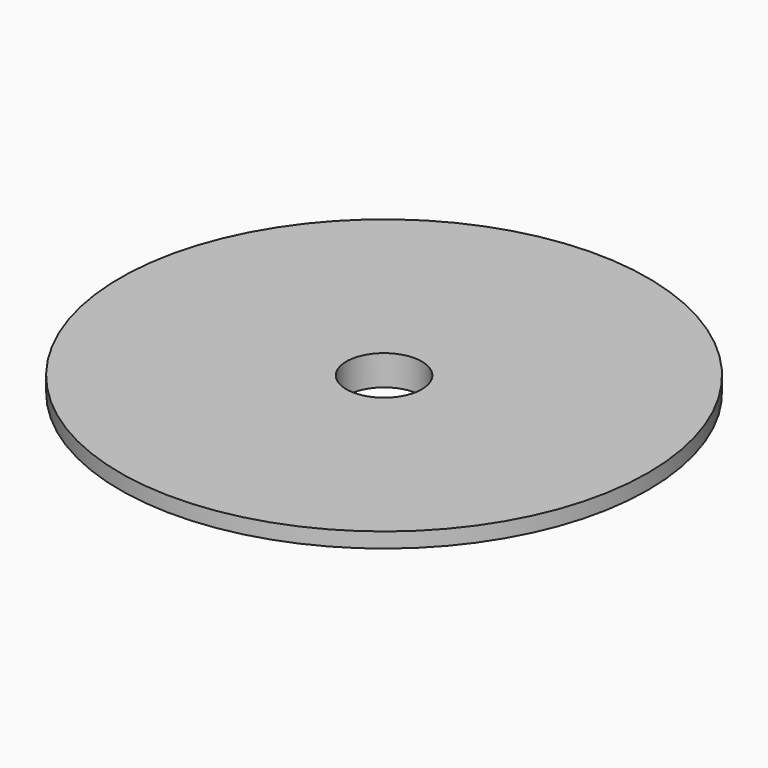
from build123d import *

# Parameters (mm, degrees)
F0_R     = 35
F1_DEPTH = 2
F2_R     = 29.271045
F3_DEPTH = 2
F4_R     = 5
F5_DEPTH = 4


with BuildPart() as f1:
    # F0 (on Top) → F1 (new body)
    with BuildSketch(Plane.XY):
        Circle(F0_R)
    extrude(amount=F1_DEPTH)

    # F2 (on face) → F3 (join)
    with BuildSketch(Plane(origin=(0, 0, 0), x_dir=(1, 0, 0), z_dir=(0, 0, -1))):
        Circle(F2_R)
    extrude(amount=F3_DEPTH)

    # F4 (on face) → F5 (cut, through all)
    with BuildSketch(Plane.XY.offset(2)):
        Circle(F4_R)
    extrude(amount=-F5_DEPTH, mode=Mode.SUBTRACT)


solid = f1.part
